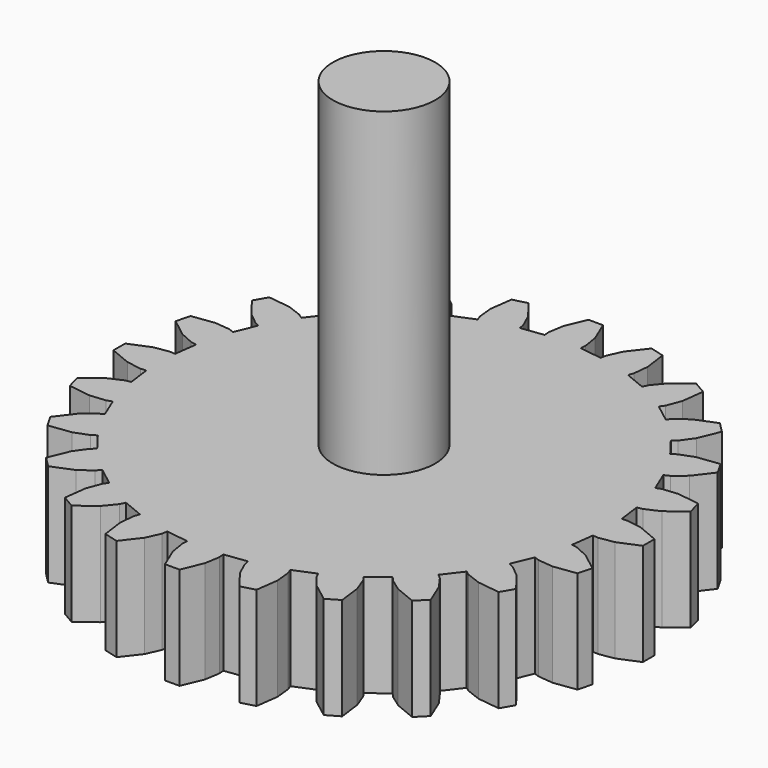
from build123d import *

# Parameters (mm, degrees)
F1_DEPTH = 8
F2_R     = 4
F3_DEPTH = 25
F4_R     = 4
F5_DEPTH = 4


with BuildPart() as f1:
    # F0 (on Top) → F1 (new body)
    with BuildSketch(Plane.XY):
        Polygon((17.888898, 1.44055), (17.450553, 1.405252), (17.219648, 3.159167), (17.65219, 3.238523), (18.731619, 3.725952), (20.124934, 4.80303), (19.830217, 5.90292), (18.085034, 6.139041), (16.906508, 6.021454), (16.492234, 5.873906), (15.815248, 7.508294), (16.212515, 7.696898), (17.129006, 8.447091), (18.196077, 9.848085), (17.626731, 10.834221), (15.879899, 10.610611), (14.771965, 10.192004), (14.409999, 9.94226), (13.33307, 11.345743), (13.667985, 11.63074), (14.359083, 12.592578), (15.027187, 14.222014), (14.222013, 15.027187), (12.592578, 14.359082), (11.630739, 13.667986), (11.345743, 13.333069), (9.94226, 14.409999), (10.192004, 14.771965), (10.61061, 15.879899), (10.83422, 17.626731), (9.848085, 18.196078), (8.447092, 17.129007), (7.696897, 16.212515), (7.508294, 15.815247), (5.873905, 16.492234), (6.021454, 16.906509), (6.139042, 18.085035), (5.90292, 19.830218), (4.80303, 20.124933), (3.725951, 18.731619), (3.238523, 17.65219), (3.159167, 17.219648), (1.405252, 17.450554), (1.44055, 17.888899), (1.249107, 19.057702), (0.569344, 20.682309), (-0.569344, 20.682309), (-1.249107, 19.057702), (-1.44055, 17.888899), (-1.405252, 17.450554), (-3.159167, 17.219648), (-3.238523, 17.65219), (-3.725951, 18.731619), (-4.80303, 20.124933), (-5.902921, 19.830218), (-6.139042, 18.085035), (-6.021454, 16.906509), (-5.873905, 16.492234), (-7.508294, 15.815247), (-7.696897, 16.212515), (-8.447092, 17.129007), (-9.848085, 18.196078), (-10.83422, 17.626731), (-10.61061, 15.879899), (-10.192004, 14.771965), (-9.94226, 14.409999), (-11.345743, 13.333069), (-11.630739, 13.667986), (-12.592578, 14.359082), (-14.222013, 15.027187), (-15.027188, 14.222014), (-14.359083, 12.592578), (-13.667986, 11.63074), (-13.33307, 11.345743), (-14.409999, 9.94226), (-14.771966, 10.192004), (-15.879899, 10.610611), (-17.626731, 10.834221), (-18.196077, 9.848085), (-17.129007, 8.447091), (-16.212515, 7.696898), (-15.815248, 7.508294), (-16.492234, 5.873906), (-16.906508, 6.021454), (-18.085034, 6.139041), (-19.830217, 5.90292), (-20.124934, 4.80303), (-18.73162, 3.725952), (-17.65219, 3.238523), (-17.219648, 3.159167), (-17.450554, 1.405252), (-17.888898, 1.44055), (-19.057702, 1.249108), (-20.682308, 0.569344), (-20.682308, -0.569344), (-19.057702, -1.249108), (-17.888898, -1.44055), (-17.450554, -1.405252), (-17.219648, -3.159167), (-17.65219, -3.238522), (-18.73162, -3.725952), (-20.124934, -4.80303), (-19.830217, -5.90292), (-18.085034, -6.139041), (-16.906508, -6.021454), (-16.492234, -5.873906), (-15.815248, -7.508294), (-16.212515, -7.696898), (-17.129007, -8.447091), (-18.196077, -9.848085), (-17.626731, -10.83422), (-15.879899, -10.610611), (-14.771966, -10.192003), (-14.409999, -9.94226), (-13.33307, -11.345743), (-13.667986, -11.630739), (-14.359083, -12.592578), (-15.027188, -14.222014), (-14.222013, -15.027187), (-12.592578, -14.359082), (-11.630739, -13.667985), (-11.345743, -13.333069), (-9.94226, -14.409999), (-10.192004, -14.771965), (-10.61061, -15.879899), (-10.83422, -17.62673), (-9.848085, -18.196078), (-8.447092, -17.129007), (-7.696897, -16.212515), (-7.508294, -15.815247), (-5.873905, -16.492234), (-6.021454, -16.906509), (-6.139042, -18.085034), (-5.902921, -19.830218), (-4.80303, -20.124933), (-3.725951, -18.731619), (-3.238523, -17.652189), (-3.159167, -17.219647), (-1.405252, -17.450553), (-1.44055, -17.888898), (-1.249107, -19.057701), (-0.569344, -20.682308), (0.569344, -20.682308), (1.249107, -19.057701), (1.44055, -17.888898), (1.405252, -17.450553), (3.159167, -17.219647), (3.238523, -17.652189), (3.725951, -18.731619), (4.80303, -20.124933), (5.90292, -19.830218), (6.139042, -18.085034), (6.021454, -16.906509), (5.873905, -16.492234), (7.508294, -15.815247), (7.696897, -16.212515), (8.447092, -17.129007), (9.848085, -18.196078), (10.83422, -17.62673), (10.61061, -15.879899), (10.192004, -14.771965), (9.94226, -14.409999), (11.345743, -13.333069), (11.630739, -13.667985), (12.592578, -14.359082), (14.222013, -15.027187), (15.027187, -14.222014), (14.359083, -12.592578), (13.667985, -11.630739), (13.33307, -11.345743), (14.409999, -9.94226), (14.771965, -10.192003), (15.879899, -10.610611), (17.626731, -10.83422), (18.196077, -9.848085), (17.129006, -8.447091), (16.212515, -7.696898), (15.815248, -7.508294), (16.492234, -5.873906), (16.906508, -6.021454), (18.085034, -6.139041), (19.830217, -5.90292), (20.124934, -4.80303), (18.731619, -3.725952), (17.65219, -3.238522), (17.219648, -3.159167), (17.450553, -1.405252), (17.888898, -1.44055), (19.057702, -1.249108), (20.682308, -0.569344), (20.682308, 0.569344), (19.057702, 1.249108), align=None)
    extrude(amount=F1_DEPTH)

    # F2 (on face) → F3 (join)
    with BuildSketch(Plane.XY.offset(8)):
        Circle(F2_R)
    extrude(amount=F3_DEPTH)

    # F4 (on face) → F5 (join)
    with BuildSketch(Plane(origin=(0, 0, 0), x_dir=(1, 0, 0), z_dir=(0, 0, -1))):
        Circle(F4_R)
    extrude(amount=F5_DEPTH)


solid = f1.part
